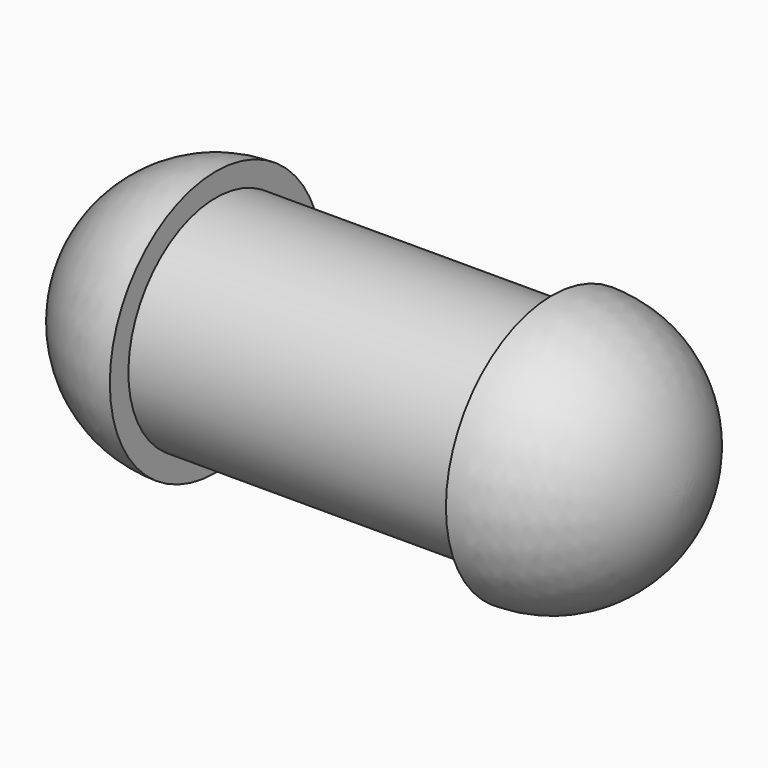
from build123d import *

# Parameters (mm, degrees)
F0_W = 15.2
F0_H = 4.95


with BuildPart() as f1:
    # F0 (on Front) → F1 (revolve)
    with BuildSketch(Plane.XZ):
        with BuildLine():
            Line((0, 4.95), (0, 0))
            Line((0, 0), (0, -1.05))
            ThreePointArc((0, -1.05), (4.242641, 0.707359), (6, 4.95))
            Line((6, 4.95), (0, 4.95))
        make_face()
        with BuildLine():
            Line((-15.2, -1.05), (-15.2, 0))
            Line((-15.2, 0), (-15.2, 4.95))
            Line((-15.2, 4.95), (-21.2, 4.95))
            ThreePointArc((-21.2, 4.95), (-19.442641, 0.707359), (-15.2, -1.05))
        make_face()
        with Locations((-7.6, 2.475)):
            Rectangle(F0_W, F0_H)
    revolve(axis=Axis((-7.6, 0, 4.95), (1, 0, 0)))


solid = f1.part
